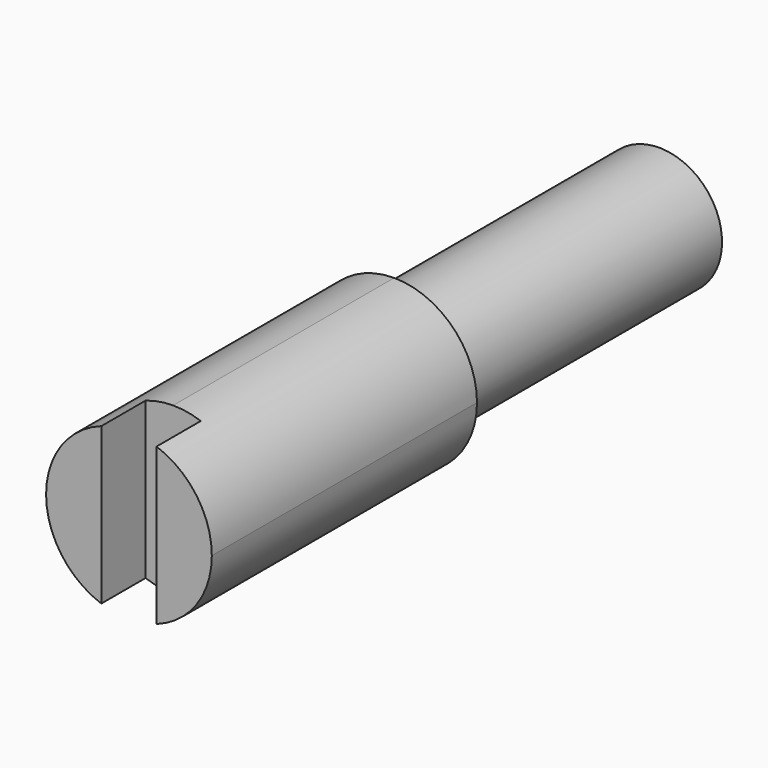
from build123d import *

# Parameters (mm, degrees)
F0_W     = 4.7625
F0_H     = 4.7625
F1_DEPTH = 9.525
F3_DEPTH = 25.4
F5_DEPTH = 25.4
F6_R     = 1.8034
F7_DEPTH = 9.525


with BuildPart() as f1:
    # F0 (on Front) → F1 (new body)
    with BuildSketch(Plane.XZ):
        Rectangle(F0_W, F0_H)
    extrude(amount=F1_DEPTH)

    # F2 (on face) → F3 (cut)
    with BuildSketch(Plane.XY.offset(2.38125)):
        Polygon((-0.79375, -9.525), (0, -9.525), (0.79375, -9.525), (0.79375, -7.9375), (-0.79375, -7.9375), align=None)
    extrude(amount=-F3_DEPTH, mode=Mode.SUBTRACT)

    # F4 (on face) → F5 (cut)
    with BuildSketch(Plane(origin=(0, 0, 0), x_dir=(-1, 0, 0), z_dir=(0, 1, 0))):
        with BuildLine():
            ThreePointArc((-2.38125, 0), (-1.6837980227, 1.6837980227), (0, 2.38125))
            Line((0, 2.38125), (-2.38125, 2.38125))
            Line((-2.38125, 2.38125), (-2.38125, 0))
        make_face()
        with BuildLine():
            ThreePointArc((0, 2.38125), (1.6837980227, 1.6837980227), (2.38125, 0))
            Line((2.38125, 0), (2.38125, 2.38125))
            Line((2.38125, 2.38125), (0, 2.38125))
        make_face()
        with BuildLine():
            Line((2.38125, -2.38125), (2.38125, 0))
            ThreePointArc((2.38125, 0), (1.6837980227, -1.6837980227), (0, -2.38125))
            Line((0, -2.38125), (2.38125, -2.38125))
        make_face()
        with BuildLine():
            Line((-2.38125, -2.38125), (0, -2.38125))
            ThreePointArc((0, -2.38125), (-1.6837980227, -1.6837980227), (-2.38125, 0))
            Line((-2.38125, 0), (-2.38125, -2.38125))
        make_face()
    extrude(amount=-F5_DEPTH, mode=Mode.SUBTRACT)

    # F6 (on face) → F7 (join)
    with BuildSketch(Plane(origin=(0, 0, 0), x_dir=(-1, 0, 0), z_dir=(0, 1, 0))):
        Circle(F6_R)
    extrude(amount=F7_DEPTH)


solid = f1.part
